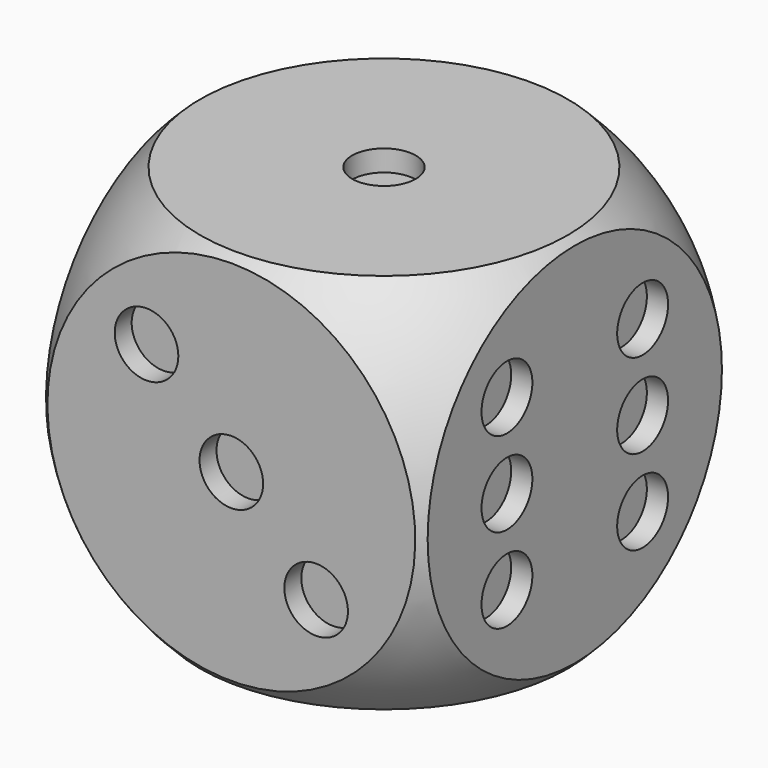
from build123d import *

# Parameters (mm, degrees)
BOX_W           = 36
BOX_H           = 36
BOX_DEPTH       = 36
SKETCH_R        = 3
POCKET_DEPTH    = 2
SKETCH001_R     = 3
POCKET001_DEPTH = 2
SKETCH002_R     = 3
POCKET002_DEPTH = 2
SKETCH003_R     = 3
POCKET003_DEPTH = 2
SKETCH004_R     = 3
POCKET004_DEPTH = 2
SKETCH005_R     = 3
POCKET005_DEPTH = 2


with BuildPart() as sphere:
    # Sphere → Sphere (revolve)
    with BuildSketch(Plane.XZ):
        with BuildLine():
            ThreePointArc((0, -25), (25, 0), (0, 25))
            Line((0, 25), (0, -25))
        make_face()
    revolve(axis=Axis((0, 0, 0), (0, 0, 1)))


with BuildPart() as f_1_furo:
    # Box → Box (new body)
    with BuildSketch(Plane(origin=(-18, -18, -18), x_dir=(1, 0, 0), z_dir=(0, 0, 1))):
        with Locations((18, 18)):
            Rectangle(BOX_W, BOX_H)
    extrude(amount=BOX_DEPTH)

    # Common: intersect Sphere
    add(sphere.part, mode=Mode.INTERSECT)

    # Sketch → Pocket (cut)
    with BuildSketch(Plane.YZ.offset(18)):
        with Locations((-8, 8)):
            Circle(SKETCH_R)
        with Locations((-8, -8)):
            Circle(SKETCH_R)
        with Locations((8, 8)):
            Circle(SKETCH_R)
        with Locations((8, -8)):
            Circle(SKETCH_R)
        with Locations((-8, 0)):
            Circle(SKETCH_R)
        with Locations((8, 0)):
            Circle(SKETCH_R)
    extrude(amount=-POCKET_DEPTH, mode=Mode.SUBTRACT)

    # Sketch001 → Pocket001 (cut)
    with BuildSketch(Plane(origin=(0, 18, 0), x_dir=(-1, 0, 0), z_dir=(0, 1, 0))):
        with Locations((8, 8)):
            Circle(SKETCH001_R)
        with Locations((-8, 8)):
            Circle(SKETCH001_R)
        with Locations((-8, -8)):
            Circle(SKETCH001_R)
        with Locations((8, -8)):
            Circle(SKETCH001_R)
        Circle(SKETCH001_R)
    extrude(amount=-POCKET001_DEPTH, mode=Mode.SUBTRACT)

    # Sketch002 → Pocket002 (cut)
    with BuildSketch(Plane(origin=(-18, 0, 0), x_dir=(0, -1, 0), z_dir=(-1, 0, 0))):
        with Locations((-8, 8)):
            Circle(SKETCH002_R)
        with Locations((8, 8)):
            Circle(SKETCH002_R)
        with Locations((8, -8)):
            Circle(SKETCH002_R)
        with Locations((-8, -8)):
            Circle(SKETCH002_R)
    extrude(amount=-POCKET002_DEPTH, mode=Mode.SUBTRACT)

    # Sketch003 → Pocket003 (cut)
    with BuildSketch(Plane.XZ.offset(18)):
        with Locations((-8, 8)):
            Circle(SKETCH003_R)
        Circle(SKETCH003_R)
        with Locations((8, -8)):
            Circle(SKETCH003_R)
    extrude(amount=-POCKET003_DEPTH, mode=Mode.SUBTRACT)

    # Sketch004 → Pocket004 (cut)
    with BuildSketch(Plane(origin=(0, 0, -18), x_dir=(1, 0, 0), z_dir=(0, 0, -1))):
        with Locations((-8, 8)):
            Circle(SKETCH004_R)
        with Locations((8, -8)):
            Circle(SKETCH004_R)
    extrude(amount=-POCKET004_DEPTH, mode=Mode.SUBTRACT)

    # Sketch005 → Pocket005 (cut)
    with BuildSketch(Plane.XY.offset(18)):
        Circle(SKETCH005_R)
    extrude(amount=-POCKET005_DEPTH, mode=Mode.SUBTRACT)


solid = f_1_furo.part
